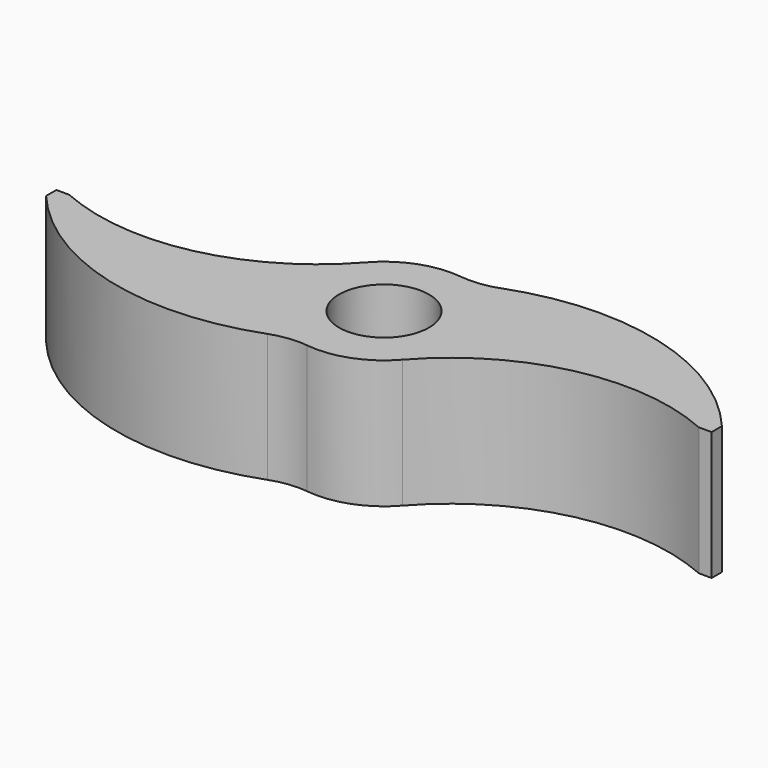
from build123d import *

# Parameters (mm, degrees)
F0_W     = 3.175
F0_H     = 3.175
F1_DEPTH = 31.75
F2_R     = 11.1125
F3_DEPTH = 31.75
F4_R     = 19.05
F5_R     = 19.05


with BuildPart() as f1:
    # F0 (on Top) → F1 (new body)
    with BuildSketch(Plane.XY):
        with BuildLine():
            ThreePointArc((15.475885, -13.652963), (19.304015, -7.298042), (20.6375, 0))
            ThreePointArc((20.6375, 0), (16.81923, 11.959093), (6.777302, 19.492937))
            ThreePointArc((6.777302, 19.492937), (-5.238574, 19.961557), (-15.475885, 13.652963))
            ThreePointArc((-15.475885, 13.652963), (-19.961557, -5.238574), (-6.777302, -19.492937))
            ThreePointArc((-6.777302, -19.492937), (5.238574, -19.961557), (15.475885, -13.652963))
        make_face()
        with BuildLine():
            ThreePointArc((6.777302, 19.492937), (16.81923, 11.959093), (20.6375, 0))
            ThreePointArc((20.6375, 0), (19.304015, -7.298042), (15.475885, -13.652963))
            ThreePointArc((15.475885, -13.652963), (44.398982, 3.363524), (77.7875, 0))
            Line((77.7875, 0), (77.7875, 3.175))
            Line((77.7875, 3.175), (80.9625, 3.175))
            ThreePointArc((80.9625, 3.175), (46.643898, 23.945214), (6.777302, 19.492937))
        make_face()
        with BuildLine():
            ThreePointArc((-6.777302, -19.492937), (-19.961557, -5.238574), (-15.475885, 13.652963))
            ThreePointArc((-15.475885, 13.652963), (-44.398982, -3.363524), (-77.7875, 0))
            Line((-77.7875, 0), (-77.7875, -3.175))
            Line((-77.7875, -3.175), (-80.9625, -3.175))
            ThreePointArc((-80.9625, -3.175), (-46.643898, -23.945214), (-6.777302, -19.492937))
        make_face()
        with Locations((79.375, 1.5875)):
            Rectangle(F0_W, F0_H)
        with Locations((-79.375, -1.5875)):
            Rectangle(F0_W, F0_H)
    extrude(amount=F1_DEPTH)

    # F2 (on Top) → F3 (cut)
    with BuildSketch(Plane.XY):
        Circle(F2_R)
    extrude(amount=F3_DEPTH, mode=Mode.SUBTRACT)

    # F4
    f4_edges = [f1.edges().sort_by_distance(p)[0] for p in [
        (-6.777302, -19.492937, 15.875),
    ]]
    fillet(f4_edges, radius=F4_R)

    # F5
    f5_edges = [f1.edges().sort_by_distance(p)[0] for p in [
        (6.777302, 19.492937, 15.875),
    ]]
    fillet(f5_edges, radius=F5_R)


solid = f1.part
